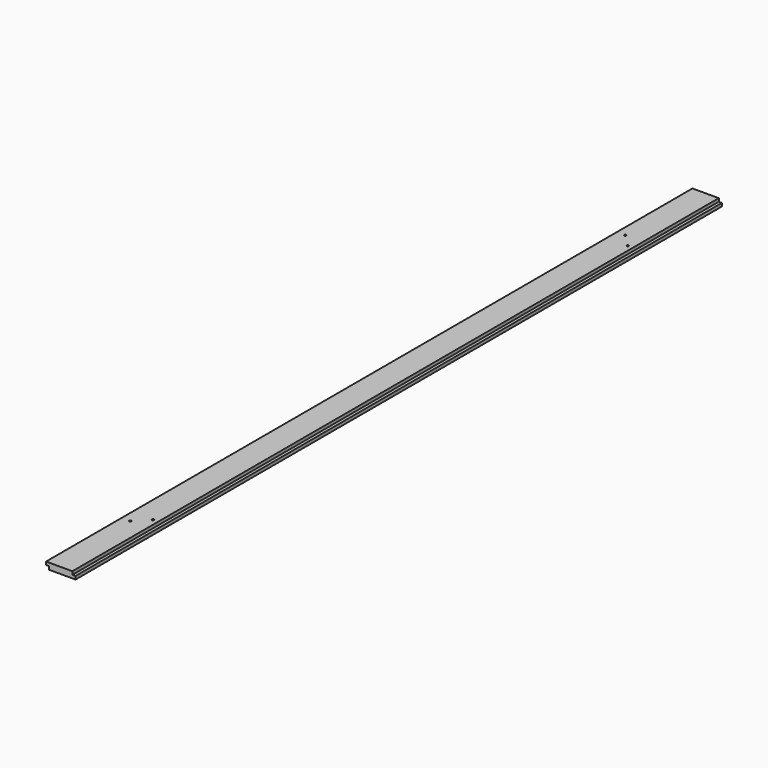
from build123d import *

# Parameters (mm, degrees)
F0_W     = 88.9
F0_H     = 19.05
F1_DEPTH = 1219.2
F2_W     = 47.0931410961
F2_H     = 23.1275351422
F2_W_2   = 44.1598849037
F2_H_2   = 21.9993637201
F3_DEPTH = 2438.401
F4_R     = 3.175
F5_DEPTH = 19.051


with BuildPart() as f1:
    # F0 (on Front) → F1 (new body, symmetric)
    with BuildSketch(Plane.XZ):
        Rectangle(F0_W, F0_H)
    extrude(amount=F1_DEPTH, both=True)

    # F2 (on face) → F3 (cut, through all)
    with BuildSketch(Plane.XZ.offset(1219.2)):
        with Locations((-58.471570548, -11.5637675711)):
            Rectangle(F2_W, F2_H)
        with Locations((57.0049424518, 10.9996818601)):
            Rectangle(F2_W_2, F2_H_2)
    extrude(amount=-F3_DEPTH, mode=Mode.SUBTRACT)

    # F4 (on face) → F5 (cut, through all)
    with BuildSketch(Plane.XY.offset(9.525)):
        with Locations((-19.05, -933.45)):
            Circle(F4_R)
        with Locations((19.05, -895.35)):
            Circle(F4_R)
        with Locations((-19.05, 933.45)):
            Circle(F4_R)
        with Locations((19.05, 895.35)):
            Circle(F4_R)
    extrude(amount=-F5_DEPTH, mode=Mode.SUBTRACT)


solid = f1.part
